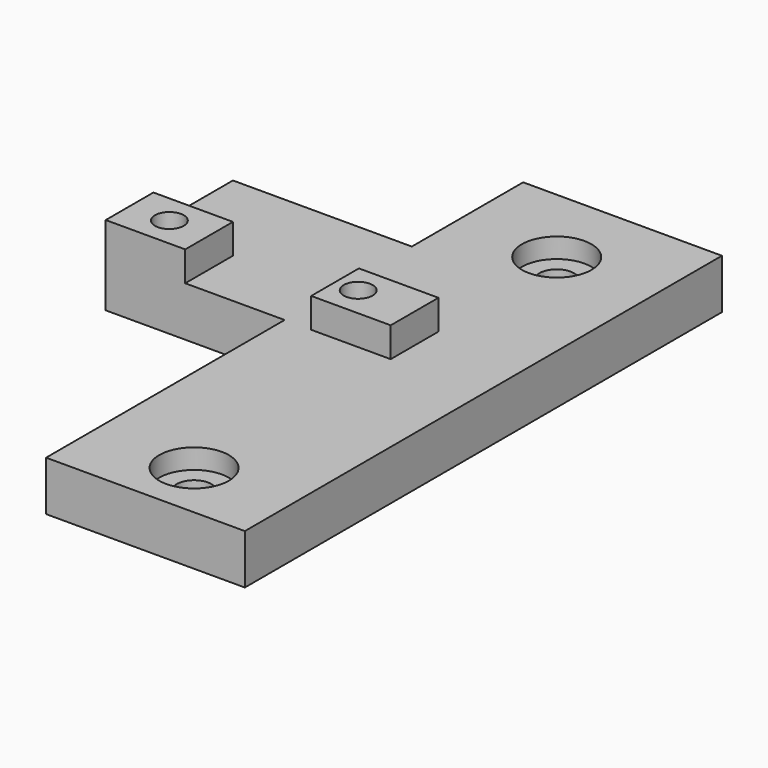
from build123d import *

# Parameters (mm, degrees)
F0_R     = 1.45
F1_DEPTH = 5
F2_R     = 1.75
F3_DEPTH = 25
F4_W     = 8
F4_H     = 6
F4_R     = 1.45
F5_DEPTH = 3
F6_R     = 3.5
F7_DEPTH = 2


with BuildPart() as f1:
    # F0 (on Top) → F1 (new body)
    with BuildSketch(Plane.XY):
        Polygon((0, 30), (0, 0), (20, 0), (20, 60), (0, 60), (0, 46), (-18, 46), (-18, 30), align=None)
        with Locations((-14.043072, 33.05522)):
            Circle(F0_R, mode=Mode.SUBTRACT)
        with Locations((4.956928, 33.05522)):
            Circle(F0_R, mode=Mode.SUBTRACT)
    extrude(amount=F1_DEPTH)

    # F2 (on face) → F3 (cut)
    with BuildSketch(Plane.XY.offset(5)):
        with Locations((10.002809, 51.71774)):
            Circle(F2_R)
        with Locations((10.166974, 5.901501)):
            Circle(F2_R)
    extrude(amount=-F3_DEPTH, mode=Mode.SUBTRACT)

    # F4 (on face) → F5 (join)
    with BuildSketch(Plane.XY.offset(5)):
        with Locations((-14, 33)):
            Rectangle(F4_W, F4_H)
        with Locations((-14.043072, 33.05522)):
            Circle(F4_R, mode=Mode.SUBTRACT)
        with Locations((6.67554, 33)):
            Rectangle(F4_W, F4_H)
        with Locations((4.956928, 33.05522)):
            Circle(F4_R, mode=Mode.SUBTRACT)
    extrude(amount=F5_DEPTH)

    # F6 (on face) → F7 (cut)
    with BuildSketch(Plane.XY.offset(5)):
        with Locations((10.002809, 51.71774)):
            Circle(F6_R)
        with Locations((10.166974, 5.901501)):
            Circle(F6_R)
    extrude(amount=-F7_DEPTH, mode=Mode.SUBTRACT)


solid = f1.part
